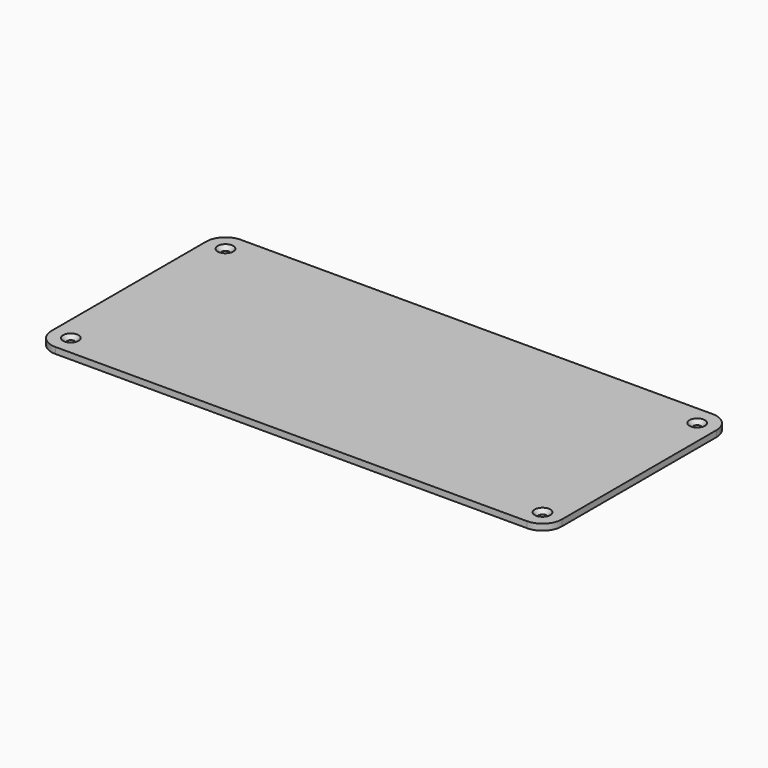
from build123d import *

# Parameters (mm, degrees)
F0_W           = 330
F0_H           = 150
F1_DEPTH       = 4
F2_R           = 12.5
F4_D           = 5
F4_CSINK_D     = 10
F4_CSINK_ANGLE = 90


with BuildPart() as f1:
    # F0 (on Top) → F1 (new body)
    with BuildSketch(Plane.XY):
        with Locations((165, 75)):
            Rectangle(F0_W, F0_H)
    extrude(amount=F1_DEPTH)

    # F2
    f2_edges = [f1.edges().sort_by_distance(p)[0] for p in [
        (330, 0, 2),
        (330, 150, 2),
        (0, 150, 2),
        (0, 0, 2),
    ]]
    fillet(f2_edges, radius=F2_R)

    # F4 (through all)
    with Locations(Plane.XY.offset(4)):
        with Locations((12.5, 137.5), (317.5, 137.5), (317.5, 12.5), (12.5, 12.5)):
            CounterSinkHole(F4_D / 2, F4_CSINK_D / 2, counter_sink_angle=F4_CSINK_ANGLE)


solid = f1.part
